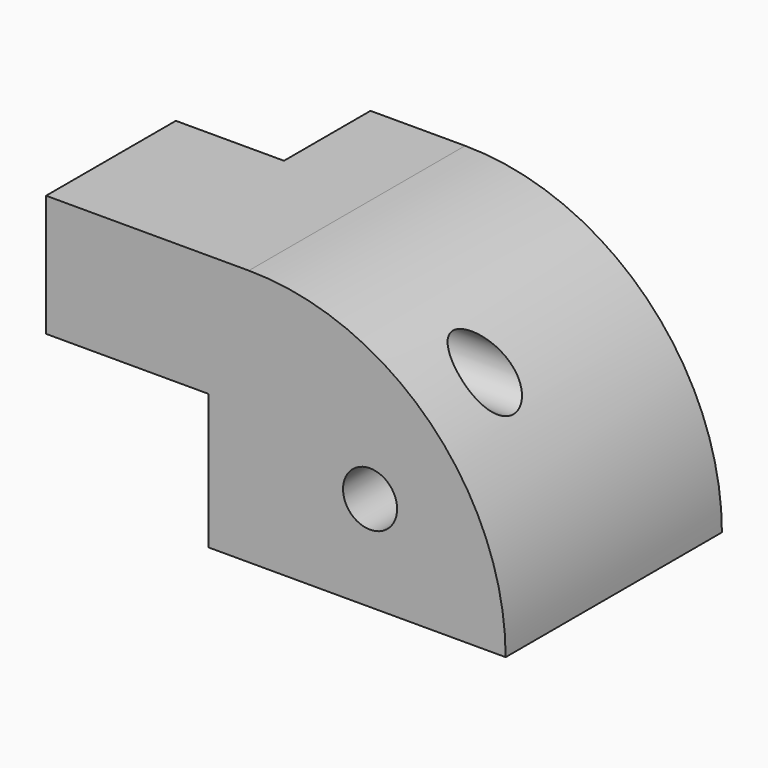
from build123d import *

# Parameters (mm, degrees)
F0_W      = 127
F0_H      = 120.65
F1_DEPTH  = 139.7
F2_W      = 76.2
F2_H      = 57.15
F3_DEPTH  = 76.2
F5_DEPTH  = 127.001
F6_W      = 50.8
F6_H      = 57.15
F7_DEPTH  = 25.4
F9_R      = 12.7
F10_DEPTH = 215.901
F11_R     = 12.7
F12_DEPTH = 127.001


with BuildPart() as f1:
    # F0 (on Right) → F1 (new body)
    with BuildSketch(Plane.YZ):
        Rectangle(F0_W, F0_H)
    extrude(amount=F1_DEPTH)

    # F2 (on face) → F3 (join)
    with BuildSketch(Plane(origin=(0, 0, 0), x_dir=(0, -1, 0), z_dir=(-1, 0, 0))):
        with Locations((25.4, 31.75)):
            Rectangle(F2_W, F2_H)
    extrude(amount=F3_DEPTH)

    # F4 (on face) → F5 (cut, through all)
    with BuildSketch(Plane.XZ.offset(63.5)):
        with BuildLine():
            ThreePointArc((19.05, 60.325), (104.362433, 24.987433), (139.7, -60.325))
            Line((139.7, -60.325), (139.7, 60.325))
            Line((139.7, 60.325), (19.05, 60.325))
        make_face()
    extrude(amount=-F5_DEPTH, mode=Mode.SUBTRACT)

    # F6 (on face) → F7 (join)
    with BuildSketch(Plane(origin=(0, 0, 0), x_dir=(0, -1, 0), z_dir=(-1, 0, 0))):
        with Locations((-38.1, 31.75)):
            Rectangle(F6_W, F6_H)
    extrude(amount=F7_DEPTH)

    # F9 (on face) → F10 (cut, through all)
    with BuildSketch(Plane(origin=(-76.2, 0, 0), x_dir=(0, -1, 0), z_dir=(-1, 0, 0))):
        with Locations((25.187448, 28.472066)):
            Circle(F9_R)
    extrude(amount=-F10_DEPTH, mode=Mode.SUBTRACT)

    # F11 (on face) → F12 (cut, through all)
    with BuildSketch(Plane.XZ.offset(63.5)):
        with Locations((76.003939, -15.616879)):
            Circle(F11_R)
    extrude(amount=-F12_DEPTH, mode=Mode.SUBTRACT)


solid = f1.part
